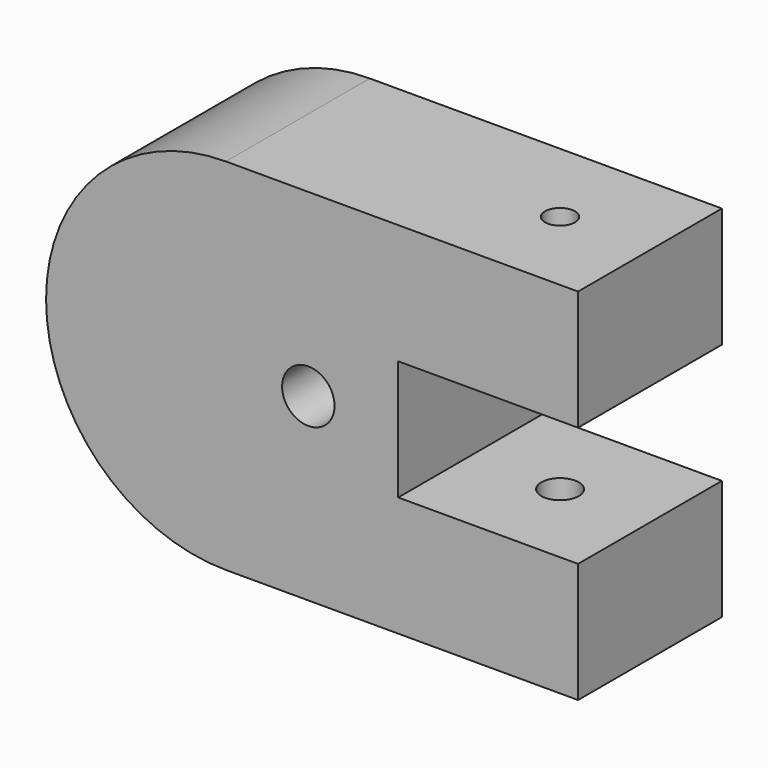
from build123d import *

# Parameters (mm, degrees)
F0_R     = 11.1125
F1_DEPTH = 76.2
F2_R     = 6.35
F3_DEPTH = 81.026
F4_R     = 7.9375
F5_DEPTH = 65.278


with BuildPart() as f1:
    # F0 (on Front) → F1 (new body)
    with BuildSketch(Plane.XZ):
        with BuildLine():
            Line((225.425, 152.4), (76.2, 152.4))
            ThreePointArc((76.2, 152.4), (22.318463, 130.081537), (0, 76.2))
            ThreePointArc((0, 76.2), (22.318463, 22.318463), (76.2, 0))
            Line((76.2, 0), (225.425, 0))
            Line((225.425, 0), (225.425, 50.8))
            Line((225.425, 50.8), (149.225, 50.8))
            Line((149.225, 50.8), (149.225, 101.6))
            Line((149.225, 101.6), (225.425, 101.6))
            Line((225.425, 101.6), (225.425, 152.4))
        make_face()
        with Locations((111.125, 76.2)):
            Circle(F0_R, mode=Mode.SUBTRACT)
    extrude(amount=F1_DEPTH)

    # F2 (on face) → F3 (cut)
    with BuildSketch(Plane.XY.offset(152.4)):
        with Locations((187.325, -38.1)):
            Circle(F2_R)
    extrude(amount=-F3_DEPTH, mode=Mode.SUBTRACT)

    # F4 (on face) → F5 (cut)
    with BuildSketch(Plane.XY.offset(50.8)):
        with Locations((187.325, -38.1)):
            Circle(F4_R)
    extrude(amount=-F5_DEPTH, mode=Mode.SUBTRACT)


solid = f1.part
